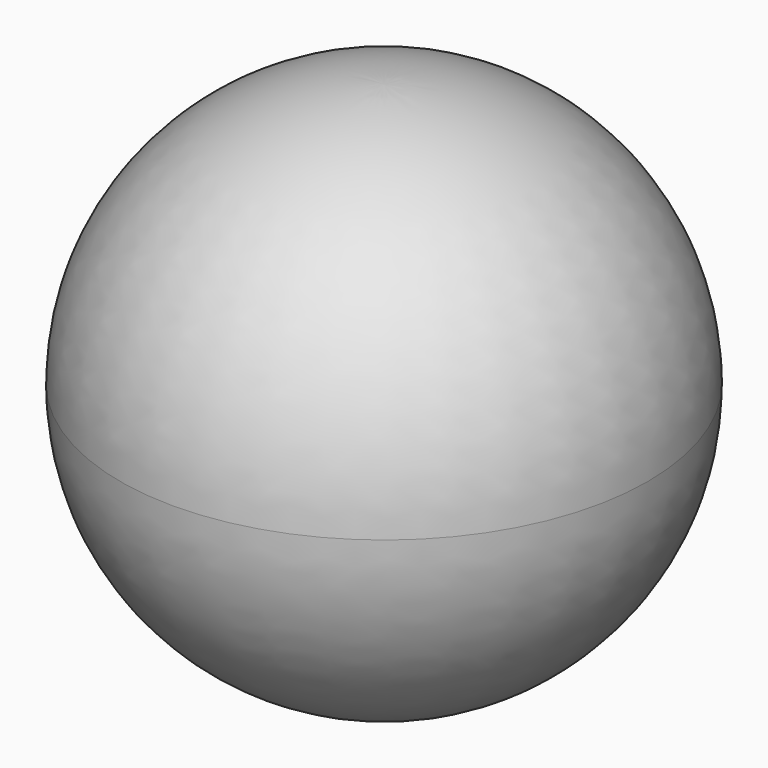
from build123d import *


with BuildPart() as f1:
    # F0 (on Front) → F1 (revolve)
    with BuildSketch(Plane.XZ):
        with BuildLine():
            ThreePointArc((-75, 0), (-53.033009, -53.033009), (0, -75))
            Line((0, -75), (0, 0))
            Line((0, 0), (-75, 0))
        make_face()
        with BuildLine():
            Line((-75, 0), (0, 0))
            Line((0, 0), (0, 75))
            ThreePointArc((0, 75), (-53.033009, 53.033009), (-75, 0))
        make_face()
    revolve(axis=Axis((0, 0, 0), (0, 0, 1)))


solid = f1.part
